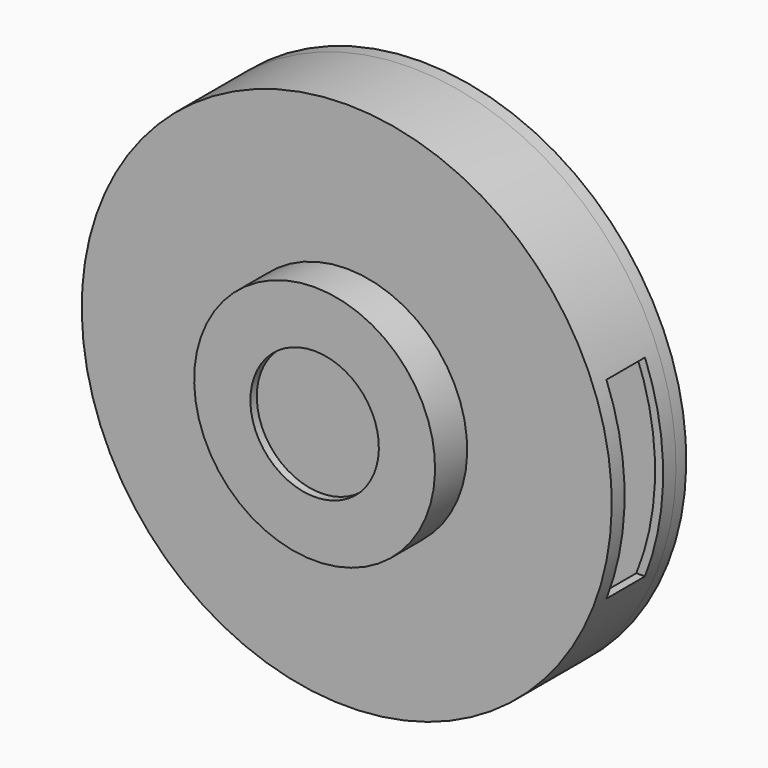
from build123d import *

# Parameters (mm, degrees)
F2_W          = 7.5
F2_H          = 30
F8_W          = 15
F8_H          = 60
F9_DEPTH      = 82.501
F9_DEPTH_BACK = 82.501
F10_R         = 5
F10_R_2       = 2.5
F11_DEPTH     = 20


with BuildPart() as f4:
    # F0 (on Right) → F4 (revolve)
    with BuildSketch(Plane.YZ):
        Polygon((-2.5, 0), (0, 0), (2.5, 0), (2.5, 80), (25, 80), (27.5, 80), (27.5, 81), (25, 81), (25, 82.5), (0, 82.5), (0, 32.5), (-10, 32.5), (-10, 30), (-2.5, 30), align=None)
    revolve(axis=Axis((0, -27.8425812721, 0), (0, -1, 0)))

    # F8 (on Right) → F9 (cut, two sides)
    with BuildSketch(Plane.YZ) as f9_sk:
        with Locations((12.5, 0)):
            Rectangle(F8_W, F8_H)
    extrude(amount=-F9_DEPTH, mode=Mode.SUBTRACT)
    extrude(f9_sk.sketch, amount=F9_DEPTH_BACK, mode=Mode.SUBTRACT)

    # F10 (on face) → F11 (join)
    with BuildSketch(Plane(origin=(0, 2.5, 0), x_dir=(-1, 0, 0), z_dir=(0, 1, 0))):
        with Locations((-25, -25)):
            Circle(F10_R)
        with Locations((-25, -25)):
            Circle(F10_R_2, mode=Mode.SUBTRACT)
        with Locations((25, -25)):
            Circle(F10_R)
        with Locations((25, -25)):
            Circle(F10_R_2, mode=Mode.SUBTRACT)
    extrude(amount=F11_DEPTH)


with BuildPart() as f5:
    # F1 (on Right) → F5 (revolve)
    with BuildSketch(Plane.YZ):
        Polygon((-10, 32.5), (0, 32.5), (0, 37.5), (-12.5, 37.5), (-12.5, 20), (-10, 20), align=None)
    revolve(axis=Axis((0, -42.0060493052, 0), (0, -1, 0)))


with BuildPart() as f6:
    # F3 (on Right) → F6 (revolve)
    with BuildSketch(Plane.YZ):
        Polygon((27.5, 79.2950615287), (27.5, 0), (29, 0), (29, 82.5), (25, 82.5), (25, 81), (27.5, 81), align=None)
    revolve(axis=Axis((0, 18.4876341373, 0), (0, 1, 0)))


with BuildPart() as f7:
    # F2 (on Right) → F7 (revolve)
    with BuildSketch(Plane.YZ):
        with Locations((-6.25, 15)):
            Rectangle(F2_W, F2_H)
    revolve(axis=Axis((0, -27.8425812721, 0), (0, -1, 0)))


solid = Compound([f4.part, f5.part, f6.part, f7.part])
